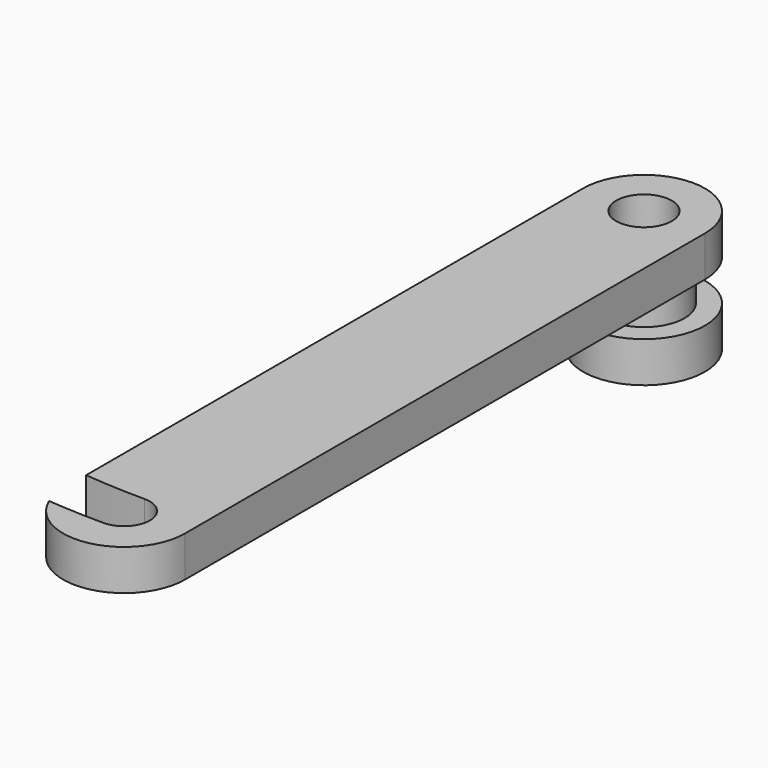
from build123d import *

# Parameters (mm, degrees)
F0_R     = 7.5
F0_R_2   = 3.425
F1_DEPTH = 5
F3_R     = 5
F3_R_2   = 3.425
F4_DEPTH = 5
F6_R     = 3.425
F7_DEPTH = 5


with BuildPart() as f1:
    # F0 (on Top) → F1 (new body)
    with BuildSketch(Plane.XY):
        Circle(F0_R)
        Circle(F0_R_2, mode=Mode.SUBTRACT)
    extrude(amount=F1_DEPTH)


with BuildPart() as f4:
    # F3 (on offset) → F4 (new body)
    with BuildSketch(Plane.XY.offset(5)):
        Circle(F3_R)
        Circle(F3_R_2, mode=Mode.SUBTRACT)
    extrude(amount=F4_DEPTH)


with BuildPart() as f7:
    # F6 (on offset) → F7 (new body)
    with BuildSketch(Plane.XY.offset(10)):
        with BuildLine():
            Line((7.5, -80), (7.5, 0))
            ThreePointArc((7.5, 0), (0, 7.5), (-7.5, 0))
            Line((-7.5, 0), (-7.5, -76.458032))
            ThreePointArc((-7.5, -76.458032), (-3.754486, -76.733203), (0, -76.825))
            ThreePointArc((0, -76.825), (3.175, -80), (0, -83.175))
            ThreePointArc((0, -83.175), (-3.464164, -83.102829), (-6.922316, -82.886441))
            ThreePointArc((-6.922316, -82.886441), (1.471841, -87.354161), (7.5, -80))
        make_face()
        Circle(F6_R, mode=Mode.SUBTRACT)
    extrude(amount=F7_DEPTH)


solid = Compound([f1.part, f4.part, f7.part])
